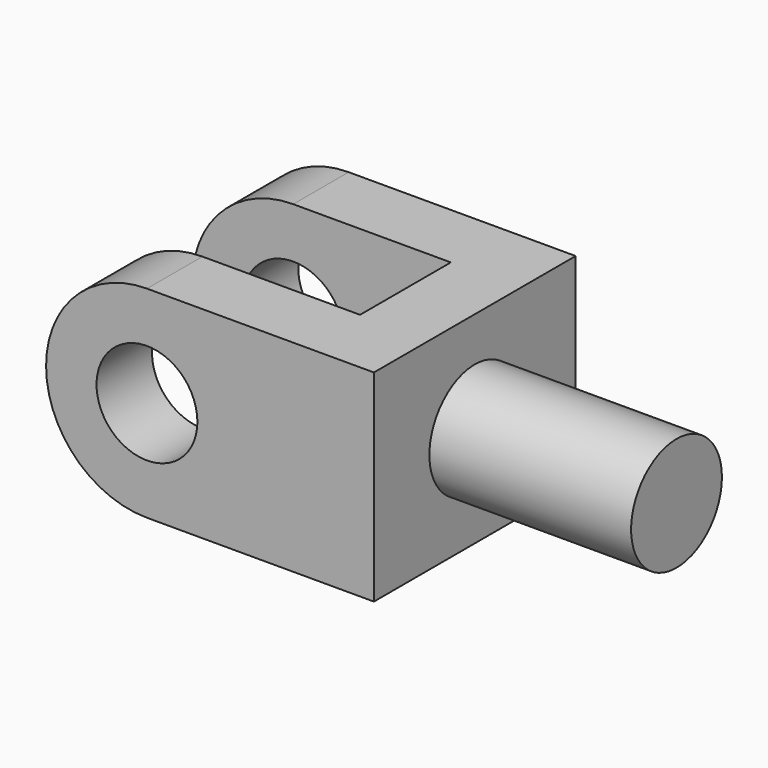
from build123d import *

# Parameters (mm, degrees)
F0_R     = 203.2
F1_DEPTH = 508
F2_DEPTH = 508
F3_R     = 228.6
F4_DEPTH = 812.8
F5_W     = 635
F5_H     = 457.2
F5_W_2   = 406.4
F6_DEPTH = 812.801


with BuildPart() as f1:
    # F0 (on Front) → F1 (new body)
    with BuildSketch(Plane.XZ):
        with BuildLine():
            ThreePointArc((0, -406.4), (287.3681958742, -287.3681958742), (406.4, 0))
            ThreePointArc((406.4, 0), (287.3681958742, 287.3681958742), (0, 406.4))
            ThreePointArc((0, 406.4), (-406.4, 0), (0, -406.4))
        make_face()
        Circle(F0_R, mode=Mode.SUBTRACT)
        with BuildLine():
            ThreePointArc((0, 406.4), (287.3681958742, 287.3681958742), (406.4, 0))
            ThreePointArc((406.4, 0), (287.3681958742, -287.3681958742), (0, -406.4))
            Line((0, -406.4), (914.4, -406.4))
            Line((914.4, -406.4), (914.4, -228.6))
            Line((914.4, -228.6), (914.4, 228.6))
            Line((914.4, 228.6), (914.4, 406.4))
            Line((914.4, 406.4), (0, 406.4))
        make_face()
    extrude(amount=F1_DEPTH)

    # F0 (on Front) → F2 (join)
    with BuildSketch(Plane.XZ):
        with BuildLine():
            ThreePointArc((0, -406.4), (287.3681958742, -287.3681958742), (406.4, 0))
            ThreePointArc((406.4, 0), (287.3681958742, 287.3681958742), (0, 406.4))
            ThreePointArc((0, 406.4), (-406.4, 0), (0, -406.4))
        make_face()
        Circle(F0_R, mode=Mode.SUBTRACT)
        with BuildLine():
            ThreePointArc((0, 406.4), (287.3681958742, 287.3681958742), (406.4, 0))
            ThreePointArc((406.4, 0), (287.3681958742, -287.3681958742), (0, -406.4))
            Line((0, -406.4), (914.4, -406.4))
            Line((914.4, -406.4), (914.4, -228.6))
            Line((914.4, -228.6), (914.4, 228.6))
            Line((914.4, 228.6), (914.4, 406.4))
            Line((914.4, 406.4), (0, 406.4))
        make_face()
    extrude(amount=-F2_DEPTH)

    # F3 (on face) → F4 (join)
    with BuildSketch(Plane.YZ.offset(914.4)):
        Circle(F3_R)
    extrude(amount=F4_DEPTH)

    # F5 (on face) → F6 (cut, through all)
    with BuildSketch(Plane.XY.offset(406.4)):
        with Locations((317.5, 0)):
            Rectangle(F5_W, F5_H)
        with Locations((-203.2, 0)):
            Rectangle(F5_W_2, F5_H)
    extrude(amount=-F6_DEPTH, mode=Mode.SUBTRACT)


solid = f1.part
